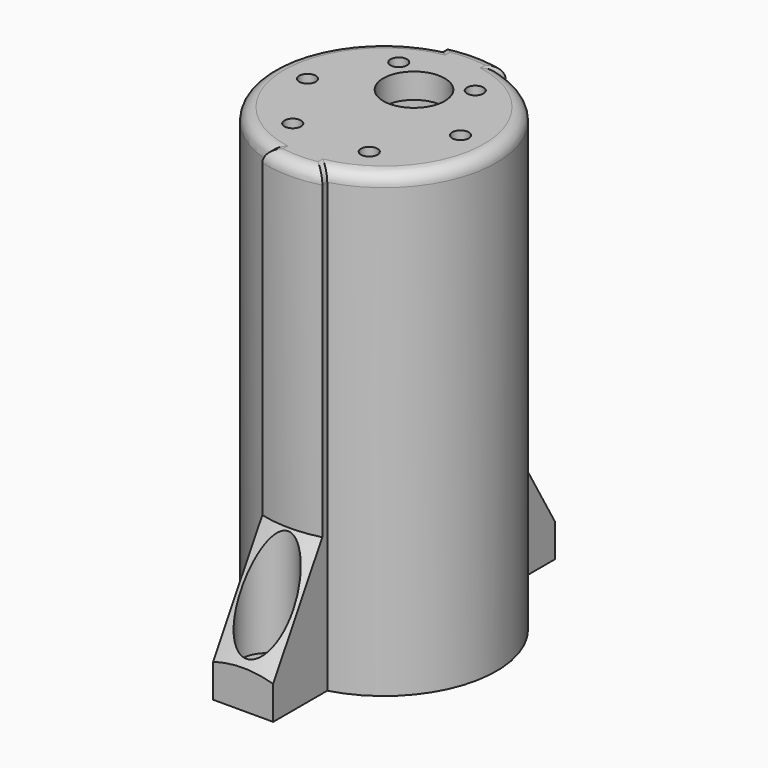
from build123d import *

# Parameters (mm, degrees)
F1_R      = 3.15
F2_DEPTH  = 92
F3_R      = 18.6
F5_DEPTH  = 87
F4_R      = 6.15
F4_R_2    = 1.65
F8_DEPTH  = 92.0010001
F9_R      = 5.25
F10_DEPTH = 87
F11_R     = 2.5


with BuildPart() as f2:
    # F1 (on Top) → F2 (new body)
    with BuildSketch(Plane.XY):
        with BuildLine():
            Line((6, 35.2), (-6, 35.2))
            Line((-6, 35.2), (-6, 21.6852484422))
            ThreePointArc((-6, 21.6852484422), (0, 22.5), (6, 21.6852484422))
            Line((6, 21.6852484422), (6, 35.2))
        make_face()
        with Locations((0, 29.2)):
            Circle(F1_R, mode=Mode.SUBTRACT)
        with BuildLine():
            ThreePointArc((6, 21.6852484422), (0, 22.5), (-6, 21.6852484422))
            ThreePointArc((-6, 21.6852484422), (-22.5, 0), (-6, -21.6852484422))
            ThreePointArc((-6, -21.6852484422), (0, -22.5), (6, -21.6852484422))
            ThreePointArc((6, -21.6852484422), (17.9060045795, -13.6244265934), (22.5, 0))
            ThreePointArc((22.5, 0), (17.9060045795, 13.6244265934), (6, 21.6852484422))
        make_face()
        with BuildLine():
            ThreePointArc((6, -21.6852484422), (0, -22.5), (-6, -21.6852484422))
            Line((-6, -21.6852484422), (-6, -35.2))
            Line((-6, -35.2), (6, -35.2))
            Line((6, -35.2), (6, -21.6852484422))
        make_face()
        with Locations((0, -29.2)):
            Circle(F1_R, mode=Mode.SUBTRACT)
    extrude(amount=F2_DEPTH)

    # F3 (on face) → F5 (cut)
    with BuildSketch(Plane(origin=(0, 0, 0), x_dir=(1, 0, 0), z_dir=(0, 0, -1))):
        Circle(F3_R)
    extrude(amount=-F5_DEPTH, mode=Mode.SUBTRACT)

    # F6 (on Right) → F7 (revolve, cut)
    with BuildSketch(Plane.YZ):
        Polygon((36.6852484422, 102), (23.6852484422, 102), (23.6852484422, 27.5166604984), (36.6852484422, 5), align=None)
    revolve(axis=Axis((0, 0, 51.2388907373), (0, 0, 1)), mode=Mode.SUBTRACT)

    # F4 (on face) → F8 (cut, through all)
    with BuildSketch(Plane.XY.offset(92)):
        with Locations((0, 7.5)):
            Circle(F4_R)
        with Locations((-15.3, 0)):
            Circle(F4_R_2)
        with Locations((-7.65, -13.2501886779)):
            Circle(F4_R_2)
        with Locations((7.65, -13.2501886779)):
            Circle(F4_R_2)
        with Locations((15.3, 0)):
            Circle(F4_R_2)
        with Locations((7.65, 13.2501886779)):
            Circle(F4_R_2)
        with Locations((-7.65, 13.2501886779)):
            Circle(F4_R_2)
    extrude(amount=-F8_DEPTH, mode=Mode.SUBTRACT)

    # F9 (on face) → F10 (cut)
    with BuildSketch(Plane.XY.offset(92)):
        with Locations((0, 29.2)):
            Circle(F9_R)
        with Locations((0, -29.2)):
            Circle(F9_R)
    extrude(amount=-F10_DEPTH, mode=Mode.SUBTRACT)

    # F11
    f11_edges = [f2.edges().sort_by_distance(p)[0] for p in [
        (-22.5, 0, 92),
        (-6, -22.298965, 92),
        (0, 23.685248, 92),
        (0, -23.685248, 92),
        (6, -22.298965, 92),
        (22.5, 0, 92),
        (6, 22.298965, 92),
        (-6, 22.298965, 92),
    ]]
    fillet(f11_edges, radius=F11_R)


solid = f2.part
